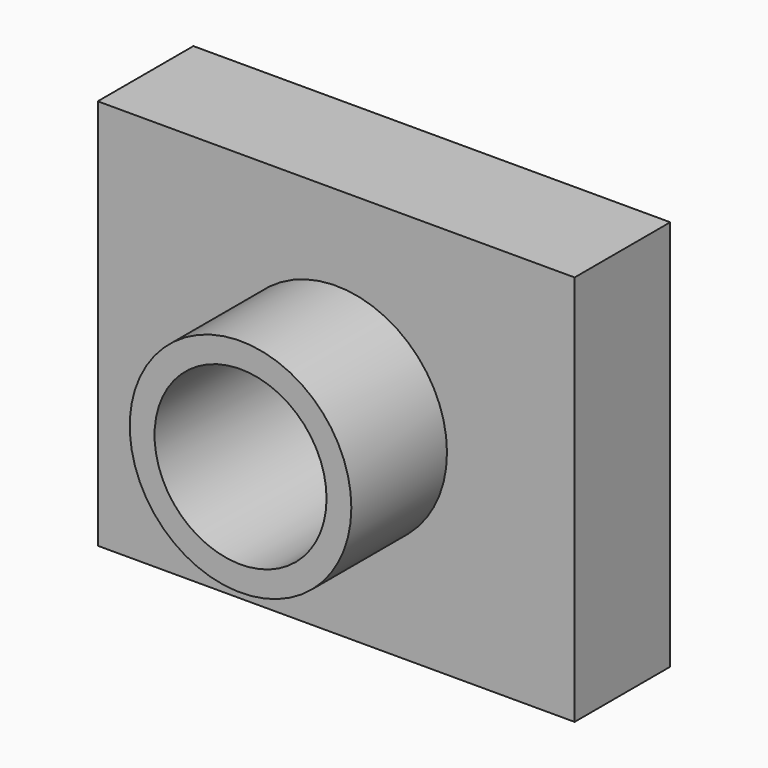
from build123d import *

# Parameters (mm, degrees)
F0_W     = 101.3161987066
F0_H     = 83.1388831139
F1_DEPTH = 25.4
F2_R     = 18.2729381932
F3_DEPTH = 25.4
F4_R     = 23.5410292958
F4_R_2   = 18.2729381932
F5_DEPTH = 25.4


with BuildPart() as f1:
    # F0 (on Front) → F1 (new body)
    with BuildSketch(Plane.XZ):
        Rectangle(F0_W, F0_H)
    extrude(amount=F1_DEPTH)

    # F2 (on face) → F3 (cut)
    with BuildSketch(Plane.XZ.offset(25.4)):
        Circle(F2_R)
    extrude(amount=-F3_DEPTH, mode=Mode.SUBTRACT)

    # F4 (on face) → F5 (join)
    with BuildSketch(Plane.XZ.offset(25.4)):
        Circle(F4_R)
        Circle(F4_R_2, mode=Mode.SUBTRACT)
    extrude(amount=F5_DEPTH)


solid = f1.part
